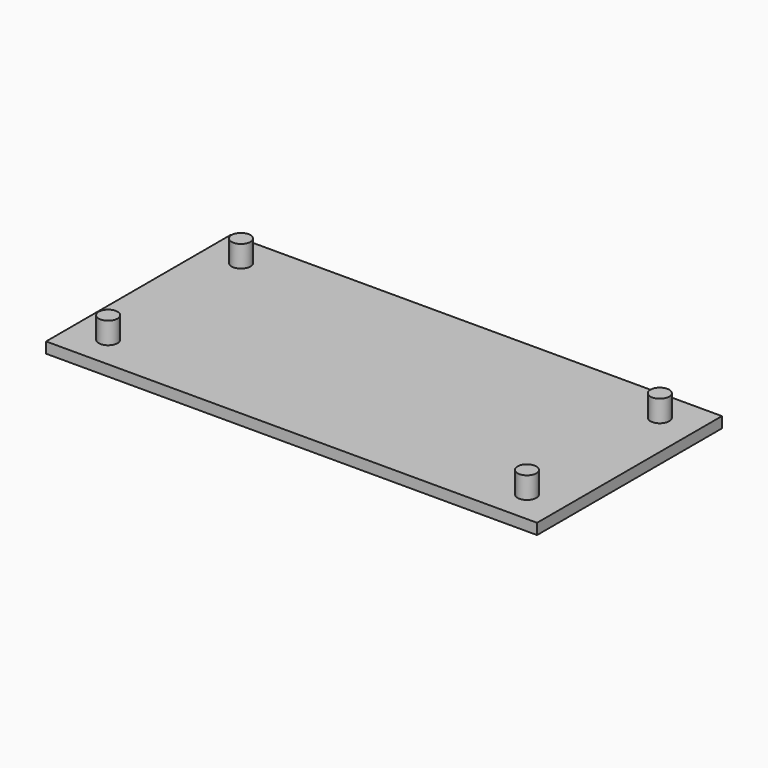
from build123d import *

# Parameters (mm, degrees)
F0_R          = 1.3
F1_DEPTH      = 3
F1_DEPTH_BACK = 1.5
F0_W          = 68
F0_H          = 32
F2_DEPTH      = 1.5


with BuildPart() as f1:
    # F0 (on Top) → F1 (new body, two sides)
    with BuildSketch(Plane.XY) as f1_sk:
        with Locations((-29.0296536804, -11.5017628863)):
            Circle(F0_R)
    extrude(amount=F1_DEPTH)
    extrude(f1_sk.sketch, amount=-F1_DEPTH_BACK)



with BuildPart() as f1b:
    # F0 (on Top) → F1, piece 2 (new body, two sides)
    with BuildSketch(Plane.XY) as f1_2_sk:
        with Locations((-29.0296536804, 11.4982371137)):
            Circle(F0_R)
    extrude(amount=F1_DEPTH)
    extrude(f1_2_sk.sketch, amount=-F1_DEPTH_BACK)


with BuildPart() as f1c:
    # F0 (on Top) → F1, piece 3 (new body, two sides)
    with BuildSketch(Plane.XY) as f1_3_sk:
        with Locations((28.9703463196, 11.4982371137)):
            Circle(F0_R)
    extrude(amount=F1_DEPTH)
    extrude(f1_3_sk.sketch, amount=-F1_DEPTH_BACK)


with BuildPart() as f1d:
    # F0 (on Top) → F1, piece 4 (new body, two sides)
    with BuildSketch(Plane.XY) as f1_4_sk:
        with Locations((28.9703463196, -11.5017628863)):
            Circle(F0_R)
    extrude(amount=F1_DEPTH)
    extrude(f1_4_sk.sketch, amount=-F1_DEPTH_BACK)


with BuildPart() as f1_1:
    add(f1.part)

    add(f1b.part)  # F2 merges F1b

    add(f1c.part)  # F2 merges F1c

    add(f1d.part)  # F2 merges F1d
    # F0 (on Top) → F2 (join)
    with BuildSketch(Plane.XY):
        with Locations((-0.0296536804, -0.0017628863)):
            Rectangle(F0_W, F0_H)
        with Locations((-29.0296536804, -11.5017628863)):
            Circle(F0_R, mode=Mode.SUBTRACT)
        with Locations((28.9703463196, -11.5017628863)):
            Circle(F0_R, mode=Mode.SUBTRACT)
        with Locations((-29.0296536804, 11.4982371137)):
            Circle(F0_R, mode=Mode.SUBTRACT)
        with Locations((28.9703463196, 11.4982371137)):
            Circle(F0_R, mode=Mode.SUBTRACT)
    extrude(amount=-F2_DEPTH)


solid = f1_1.part
